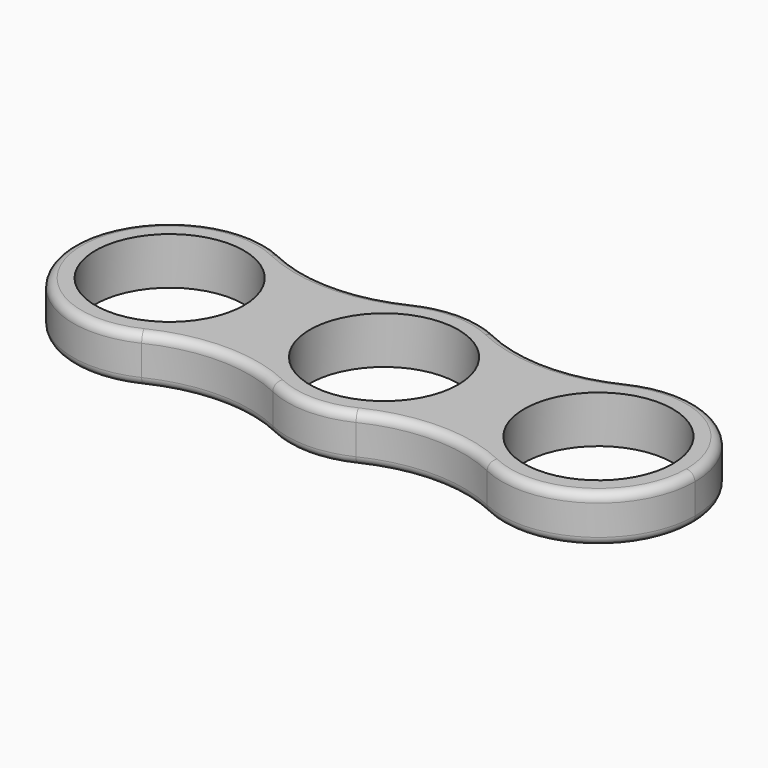
from build123d import *

# Parameters (mm, degrees)
F0_R     = 11
F1_DEPTH = 7
F2_R     = 1.27


with BuildPart() as f1:
    # F0 (on Top) → F1 (new body)
    with BuildSketch(Plane.XY):
        with BuildLine():
            ThreePointArc((6.1706337368, -12.8862692637), (12.0891601396, -7.6147792724), (14.2875, 0))
            ThreePointArc((14.2875, 0), (12.0891601396, 7.6147792724), (6.1706337368, 12.8862692637))
            ThreePointArc((6.1706337368, 12.8862692637), (0, 14.2875), (-6.1706337368, 12.8862692637))
            ThreePointArc((-6.1706337368, 12.8862692637), (-14.2875, 0), (-6.1706337368, -12.8862692637))
            ThreePointArc((-6.1706337368, -12.8862692637), (0, -14.2875), (6.1706337368, -12.8862692637))
        make_face()
        Circle(F0_R, mode=Mode.SUBTRACT)
        with BuildLine():
            ThreePointArc((6.1706337368, 12.8862692637), (12.0891601396, 7.6147792724), (14.2875, 0))
            ThreePointArc((14.2875, 0), (12.0891601396, -7.6147792724), (6.1706337368, -12.8862692637))
            ThreePointArc((6.1706337368, -12.8862692637), (15.875, -10.6825966971), (25.5793662632, -12.8862692637))
            ThreePointArc((25.5793662632, -12.8862692637), (17.4625, 0), (25.5793662632, 12.8862692637))
            ThreePointArc((25.5793662632, 12.8862692637), (15.875, 10.6825966971), (6.1706337368, 12.8862692637))
        make_face()
        with BuildLine():
            ThreePointArc((-6.1706337368, -12.8862692637), (-14.2875, 0), (-6.1706337368, 12.8862692637))
            ThreePointArc((-6.1706337368, 12.8862692637), (-15.875, 10.6825966971), (-25.5793662632, 12.8862692637))
            ThreePointArc((-25.5793662632, 12.8862692637), (-19.6608398604, 7.6147792724), (-17.4625, 0))
            ThreePointArc((-17.4625, 0), (-19.6608398604, -7.6147792724), (-25.5793662632, -12.8862692637))
            ThreePointArc((-25.5793662632, -12.8862692637), (-15.875, -10.6825966971), (-6.1706337368, -12.8862692637))
        make_face()
        with BuildLine():
            ThreePointArc((46.0375, 0), (39.3647792724, 12.0891601396), (25.5793662632, 12.8862692637))
            ThreePointArc((25.5793662632, 12.8862692637), (17.4625, 0), (25.5793662632, -12.8862692637))
            ThreePointArc((25.5793662632, -12.8862692637), (39.3647792724, -12.0891601396), (46.0375, 0))
        make_face()
        with Locations((31.75, 0)):
            Circle(F0_R, mode=Mode.SUBTRACT)
        with BuildLine():
            ThreePointArc((-17.4625, 0), (-19.6608398604, 7.6147792724), (-25.5793662632, 12.8862692637))
            ThreePointArc((-25.5793662632, 12.8862692637), (-46.0375, 0), (-25.5793662632, -12.8862692637))
            ThreePointArc((-25.5793662632, -12.8862692637), (-19.6608398604, -7.6147792724), (-17.4625, 0))
        make_face()
        with Locations((-31.75, 0)):
            Circle(F0_R, mode=Mode.SUBTRACT)
    extrude(amount=F1_DEPTH)

    # F2
    f2_edges = [f1.edges().sort_by_distance(p)[0] for p in [
        (-46.0375, 0, 7),
        (0, 14.2875, 0),
    ]]
    fillet(f2_edges, radius=F2_R)


solid = f1.part
